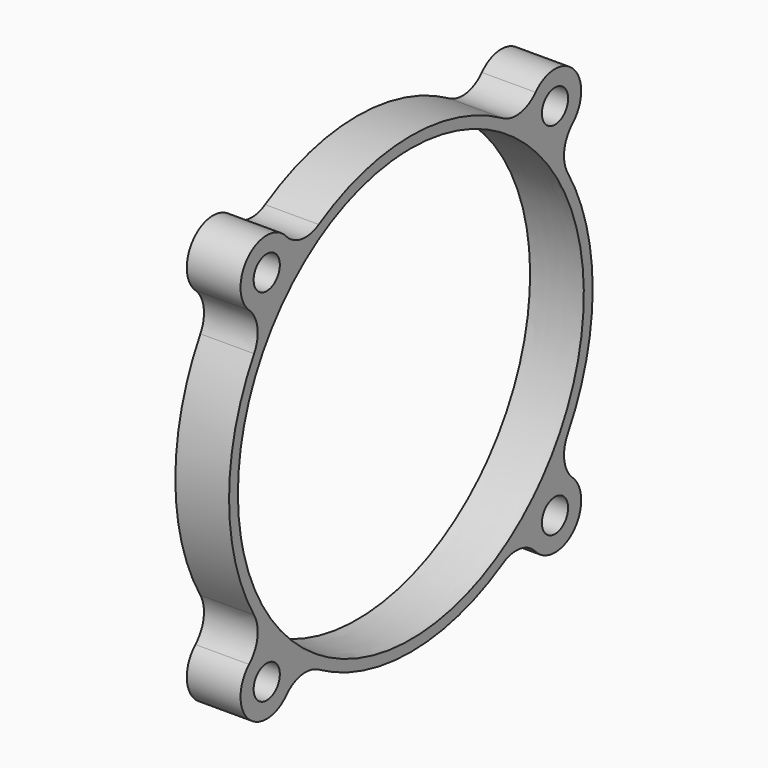
from build123d import *

# Parameters (mm, degrees)
F0_W          = 40
F0_H          = 80
F1_DEPTH      = 40
F1_DEPTH_BACK = 40
F4_R          = 64.2808012101
F5_DEPTH      = 40
F6_R          = 2.5
F7_DEPTH      = 40.001
F8_W          = 100
F8_H          = 100
F9_DEPTH      = 20.001
F10_R         = 5
F11_DEPTH     = 8.2
F12_DEPTH     = 20


with BuildPart() as f1:
    # F0 (on Front) → F1 (new body, two sides)
    with BuildSketch(Plane.XZ) as f1_sk:
        Rectangle(F0_W, F0_H)
    extrude(amount=F1_DEPTH)
    extrude(f1_sk.sketch, amount=-F1_DEPTH_BACK)

    # F2 (on Front) → F3 (revolve, cut)
    with BuildSketch(Plane.XZ):
        Polygon((17.4, 25), (-17.4, 25), (-38.4665206075, 25), (-38.4665206075, 0), (-17.4, 0), (17.4, 0), (38.4665206075, 0), (38.4665206075, 25), align=None)
        with BuildLine():
            Line((-17.4, 27.0906653559), (-17.4, 25))
            Line((-17.4, 25), (17.4, 25))
            Line((17.4, 25), (17.4, 27.0906653559))
            ThreePointArc((17.4, 27.0906653559), (16.184643895, 30.3581522477), (13.1294117647, 32.0371750827))
            ThreePointArc((13.1294117647, 32.0371750827), (0, 33), (-13.1294117647, 32.0371750827))
            ThreePointArc((-13.1294117647, 32.0371750827), (-16.184643895, 30.3581522477), (-17.4, 27.0906653559))
        make_face()
    revolve(axis=Axis((-30.739078176, 0, 0), (1, 0, 0)), mode=Mode.SUBTRACT)

    # F4 (on face) → F5 (cut)
    with BuildSketch(Plane.YZ.offset(20)):
        Circle(F4_R)
        with BuildLine():
            ThreePointArc((-22.6544660047, -26.2667926776), (-31.0355339059, -31.0355339059), (-26.2667926776, -22.6544660047))
            ThreePointArc((-26.2667926776, -22.6544660047), (-34.6867298477, 0), (-26.2667926776, 22.6544660047))
            ThreePointArc((-26.2667926776, 22.6544660047), (-31.0355339059, 31.0355339059), (-22.6544660047, 26.2667926776))
            ThreePointArc((-22.6544660047, 26.2667926776), (0, 34.6867298477), (22.6544660047, 26.2667926776))
            ThreePointArc((22.6544660047, 26.2667926776), (31.0355339059, 31.0355339059), (26.2667926776, 22.6544660047))
            ThreePointArc((26.2667926776, 22.6544660047), (34.6867298477, 0), (26.2667926776, -22.6544660047))
            ThreePointArc((26.2667926776, -22.6544660047), (31.0355339059, -31.0355339059), (22.6544660047, -26.2667926776))
            ThreePointArc((22.6544660047, -26.2667926776), (0, -34.6867298477), (-22.6544660047, -26.2667926776))
        make_face(mode=Mode.SUBTRACT)
    extrude(amount=-F5_DEPTH, mode=Mode.SUBTRACT)

    # F6 (on face) → F7 (cut, through all)
    with BuildSketch(Plane.YZ.offset(20)):
        with Locations((-27.5, 27.5)):
            Circle(F6_R)
        with Locations((27.5, 27.5)):
            Circle(F6_R)
        with Locations((-27.5, -27.5)):
            Circle(F6_R)
        with Locations((27.5, -27.5)):
            Circle(F6_R)
    extrude(amount=-F7_DEPTH, mode=Mode.SUBTRACT)

    # F8 (on Right) → F9 (cut, through all)
    with BuildSketch(Plane.YZ):
        Rectangle(F8_W, F8_H)
    extrude(amount=-F9_DEPTH, mode=Mode.SUBTRACT)

    # F10
    f10_edges = [f1.edges().sort_by_distance(p)[0] for p in [
        (10, -26.266793, -22.654466),
        (10, -26.266793, 22.654466),
        (10, 22.654466, 26.266793),
        (10, -22.654466, 26.266793),
        (10, 26.266793, 22.654466),
        (10, 26.266793, -22.654466),
        (10, 22.654466, -26.266793),
        (10, -22.654466, -26.266793),
    ]]
    fillet(f10_edges, radius=F10_R)

    # F11 (add): a face of the model
    f11_faces = [f1.faces().sort_by_distance(p)[0] for p in [
        (0, -30.341799307, -30.341799307),
    ]]
    extrude(f11_faces, amount=F11_DEPTH)

    # F12 (cut): a face of the model
    f12_faces = [f1.faces().sort_by_distance(p)[0] for p in [
        (20, 0, -33.7056409691),
    ]]
    extrude(f12_faces, amount=-F12_DEPTH, mode=Mode.SUBTRACT)


solid = f1.part
